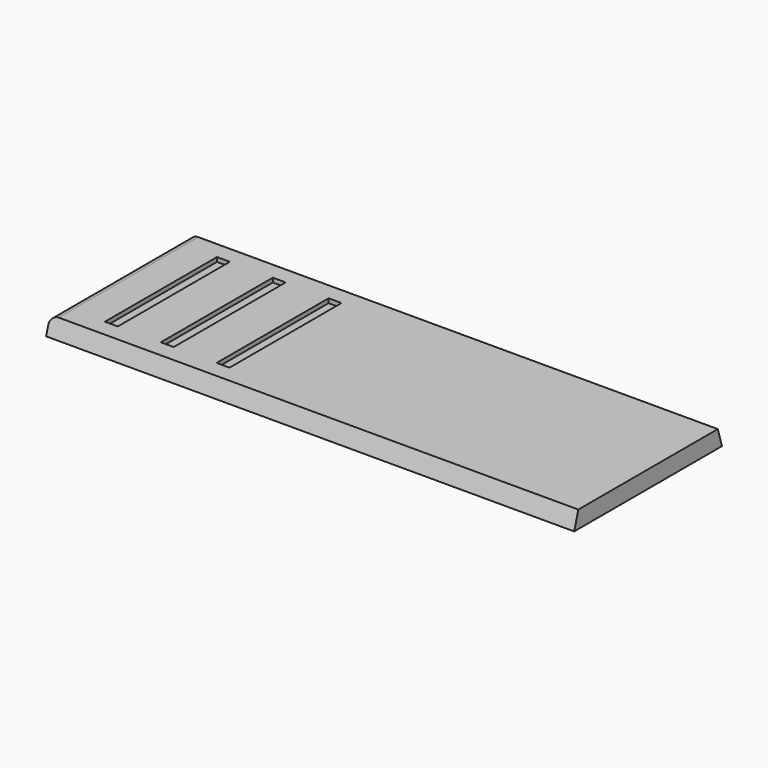
from build123d import *

# Parameters (mm, degrees)
F1_DEPTH = 123
F2_W     = 3
F2_H     = 32.6
F3_DEPTH = 1
F8_R     = 2


with BuildPart() as f1:
    # F0 (on Right) → F1 (new body)
    with BuildSketch(Plane.YZ):
        Polygon((25.2334366549, 9.1408645862), (-15.3665633451, 9.1408645862), (-16.5665633451, 5.1408645862), (26.4334366549, 5.1408645862), align=None)
    extrude(amount=F1_DEPTH)

    # F2 (on face) → F3 (cut)
    with BuildSketch(Plane.XY.offset(9.1408645862)):
        with Locations((11.0555046573, 4.9334366549)):
            Rectangle(F2_W, F2_H)
        with Locations((24.0555046573, 4.9334366549)):
            Rectangle(F2_W, F2_H)
        with Locations((37.0555046573, 4.9334366549)):
            Rectangle(F2_W, F2_H)
    extrude(amount=-F3_DEPTH, mode=Mode.SUBTRACT)

    # F6 (on offset) → F7 (revolve)
    with BuildSketch(Plane.YZ.offset(8)):
        with BuildLine():
            Line((9.9577122118, 4.1411592809), (9.9334366549, 5.1408645862))
            Line((9.9334366549, 5.1408645862), (4.6834377214, 5.1375182229))
            ThreePointArc((4.6834377214, 5.1375182229), (7.269235658, 4.3675716263), (9.9577122118, 4.1411592809))
        make_face()
    revolve(axis=Axis((8, 9.9455744333, 4.6410119335), (0, 0.0242755569, -0.9997053052)))

    # F8
    f8_edges = [f1.edges().sort_by_distance(p)[0] for p in [
        (0, 4.933437, 9.140865),
    ]]
    fillet(f8_edges, radius=F8_R)


solid = f1.part
